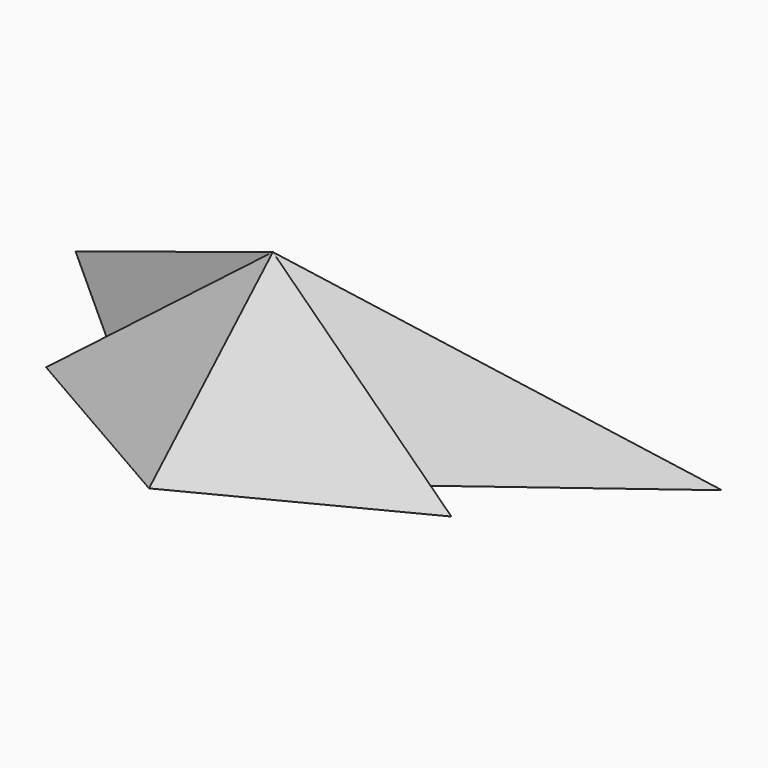
from build123d import *


with BuildPart() as f3:
    # F0 (on Top) → F3 section 0
    with BuildSketch(Plane.XY, mode=Mode.PRIVATE) as f3_s0:
        Polygon((-43.896217, 60.376804), (-55.735301, 95.512159), (-55.735301, 48.919629), (-135.171756, 95.512159), (-189.020514, 95.512159), (-103.801334, 19.161949), (-129.443169, 0), (-20.59995, -62.596932), (101.609975, 0.329433), (74.112743, 16.457615), (179.900706, 95.512159), (101.609975, 95.512159), (29.047832, 50.447252), (29.047832, 95.512159), (18.736368, 60.376804), align=None)
    loft([f3_s0.sketch, Vertex(0, 0, 100)])


solid = f3.part
